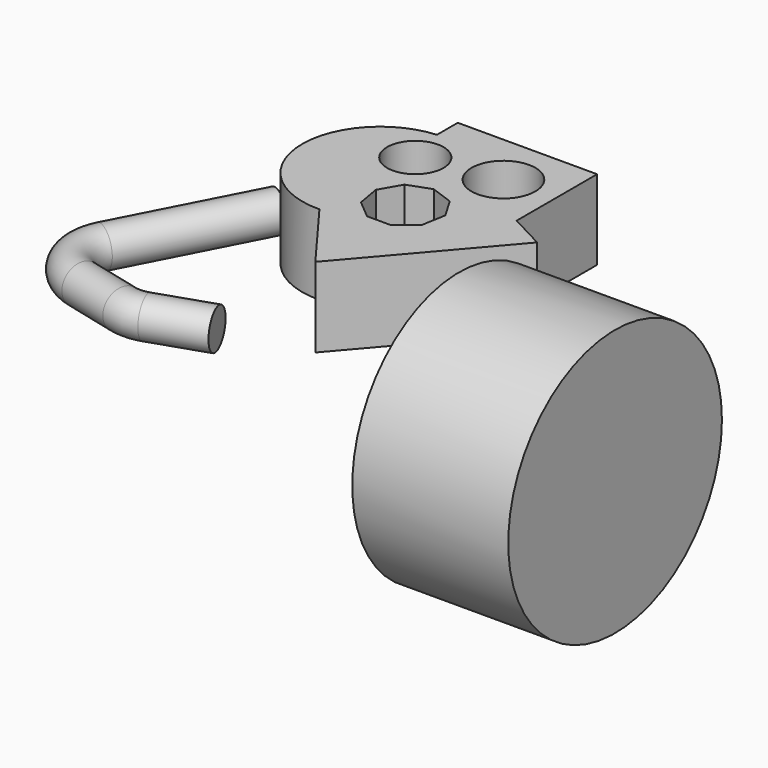
from build123d import *

# Parameters (mm, degrees)
F0_R      = 8.8399047294
F1_DEPTH  = 25
F2_R      = 10
F3_DEPTH  = 25
F4_W      = 48.8502793014
F4_H      = 41.8315539137
F8_R      = 6.0550618463
F10_DEPTH = 25


with BuildPart() as f1:
    # F0 (on Top) → F1 (new body)
    with BuildSketch(Plane.XY):
        with BuildLine():
            Line((37.3665243387, 22.3913900554), (26.2421369553, 28.2508008051))
            Line((26.2421369553, 28.2508008051), (26.2421369553, 59.7579181194))
            Line((26.2421369553, 59.7579181194), (-17.3996798694, 59.7579181194))
            Line((-17.3996798694, 59.7579181194), (-17.3996798694, 51.5863984335))
            ThreePointArc((-17.3996798694, 51.5863984335), (-40.0692905426, 26.1373309643), (-15.1940669074, 2.8394870249))
            Line((-15.1940669074, 2.8394870249), (1.4262011973, -19.5389837027))
            Line((1.4262011973, -19.5389837027), (37.3665243387, 22.3913900554))
        make_face()
        with Locations((-14.0063641593, 38.8893075287)):
            Circle(F0_R, mode=Mode.SUBTRACT)
    extrude(amount=F1_DEPTH)

    # F2 (on face) → F3 (cut)
    with BuildSketch(Plane.XY.offset(25)):
        Polygon((-3.7761976468, 7.2072981857), (3.7761976468, 7.2072981857), (9.5616680936, 12.0618843038), (10.8731277734, 19.4995417427), (7.0969301266, 26.0401079264), (0, 28.6231792471), (-7.0969301266, 26.0401079264), (-10.8731277734, 19.4995417427), (-9.5616680936, 12.0618843038), align=None)
        with Locations((10.1387892751, 43.2167700854)):
            Circle(F2_R)
    extrude(amount=-F3_DEPTH, mode=Mode.SUBTRACT)


with BuildPart() as f5:
    # F4 (on Top) → F5 (revolve)
    with BuildSketch(Plane.XY):
        with Locations((76.9251380116, -6.1764712445)):
            Rectangle(F4_W, F4_H)
    revolve(axis=Axis((76.9251380116, -27.0922482014, 0), (1, 0, 0)))


with BuildPart() as f9:
    # F9: sweep along a path in F6
    with BuildLine(Plane.XY) as f9_path:
        Line((-52.8008006513, 33.2687199116), (-74.3176116033, -8.2809805443))
        ThreePointArc((-74.3176116033, -8.2809805443), (-74.6225780717, -19.6073308005), (-65.926647183, -26.8709387643))
        Line((-65.926647183, -26.8709387643), (-49.9059681609, -30.8761079422))
        ThreePointArc((-49.9059681609, -30.8761079422), (-46.2541109203, -31.254678892), (-42.6420453234, -30.5971384807))
        Line((-42.6420453234, -30.5971384807), (-25.1772358201, -24.7755366004))
    # F8 (on line) → F9 (sweep)
    with BuildSketch(Plane(origin=(2.4196440939, 4.6724157931, 0), x_dir=(0.8879943937, -0.4598542778, 0), z_dir=(-0.4598542778, -0.8879943937, 0))):
        with Locations((-62.1855781278, 0)):
            Circle(F8_R)
    sweep(path=f9_path.line)

    # F8 (on line) → F10 (join)
    with BuildSketch(Plane(origin=(2.4196440939, 4.6724157931, 0), x_dir=(0.8879943937, -0.4598542778, 0), z_dir=(-0.4598542778, -0.8879943937, 0))):
        with Locations((-62.1855781278, 0)):
            Circle(F8_R)
    extrude(amount=F10_DEPTH)


solid = Compound([f1.part, f5.part, f9.part])
